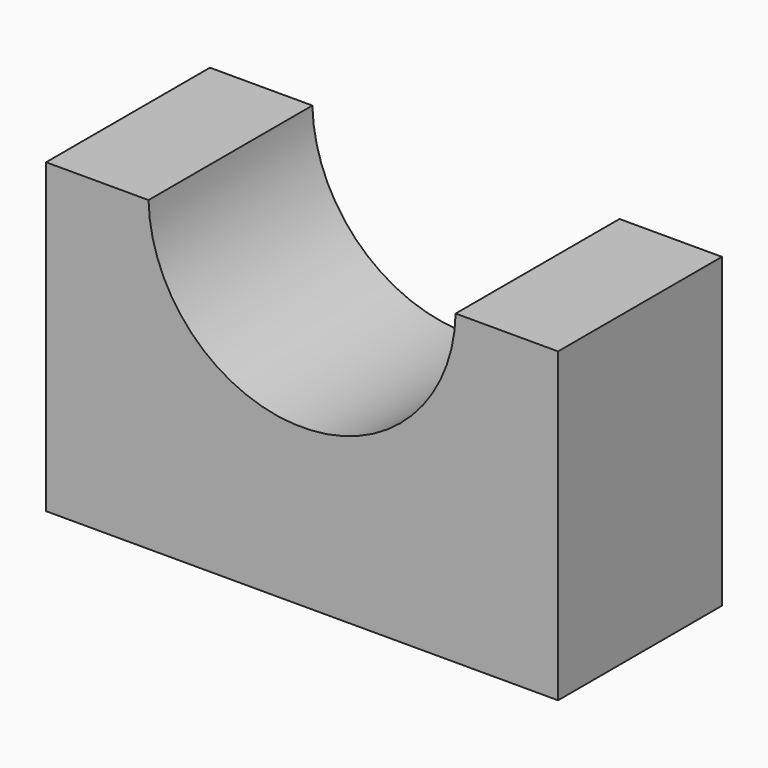
from build123d import *

# Parameters (mm, degrees)
F0_W     = 63.5
F0_H     = 38.1
F1_DEPTH = 25.4
F3_DEPTH = 25.4


with BuildPart() as f1:
    # F0 (on Front) → F1 (new body)
    with BuildSketch(Plane.XZ):
        with Locations((31.75, 19.05)):
            Rectangle(F0_W, F0_H)
    extrude(amount=F1_DEPTH)

    # F2 (on face) → F3 (cut)
    with BuildSketch(Plane.XZ.offset(25.4)):
        with BuildLine():
            Line((50.7950374359, 38.1), (12.7049625641, 38.1))
            ThreePointArc((12.7049625641, 38.1), (31.75, 19.4847977281), (50.7950374359, 38.1))
        make_face()
        with BuildLine():
            ThreePointArc((50.7950374359, 38.1), (50.7987593186, 38.3173847044), (50.8, 38.5347977281))
            ThreePointArc((50.8, 38.5347977281), (31.5325869764, 57.5835570466), (12.7049625641, 38.1))
            Line((12.7049625641, 38.1), (50.7950374359, 38.1))
        make_face()
    extrude(amount=-F3_DEPTH, mode=Mode.SUBTRACT)


solid = f1.part
